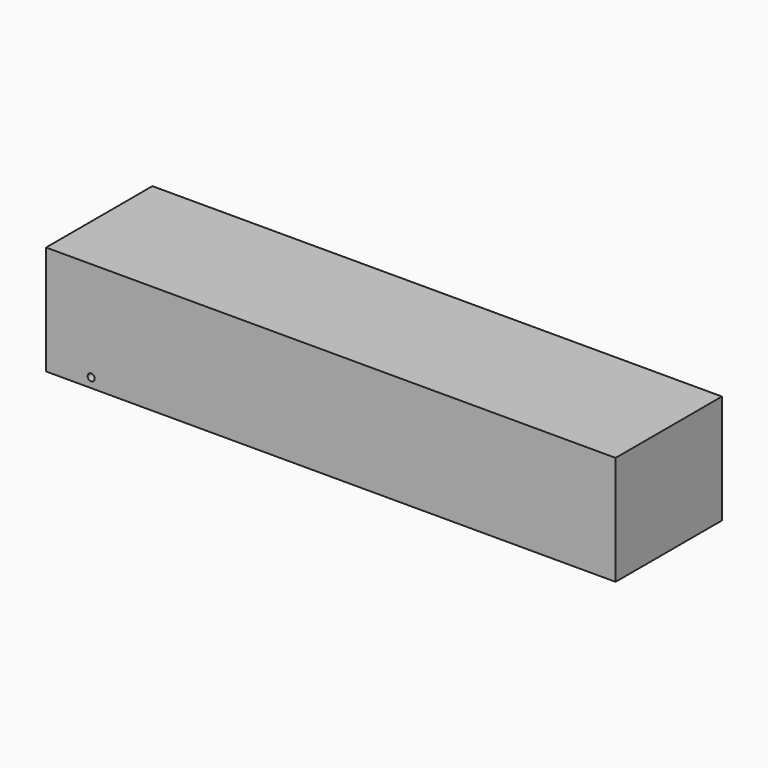
from build123d import *

# Parameters (mm, degrees)
F0_W     = 190.5
F0_H     = 36.5125
F1_DEPTH = 44.45
F3_D     = 2.3368
F3_DEPTH = 12.7
F3_TIP   = 0.7020455473


with BuildPart() as f1:
    # F0 (on Front) → F1 (new body)
    with BuildSketch(Plane.XZ):
        with Locations((11.0986940563, -9.9018995035)):
            Rectangle(F0_W, F0_H)
    extrude(amount=F1_DEPTH)

    # F3
    with Locations(Plane.XZ.offset(44.45)):
        with Locations((-69.0700559437, -24.9831495035)):
            Hole(F3_D / 2, depth=F3_DEPTH)
            with Locations((0, 0, -(F3_DEPTH + F3_TIP / 2))):  # 118° drill point
                Cone(0, F3_D / 2, F3_TIP, mode=Mode.SUBTRACT)


solid = f1.part
